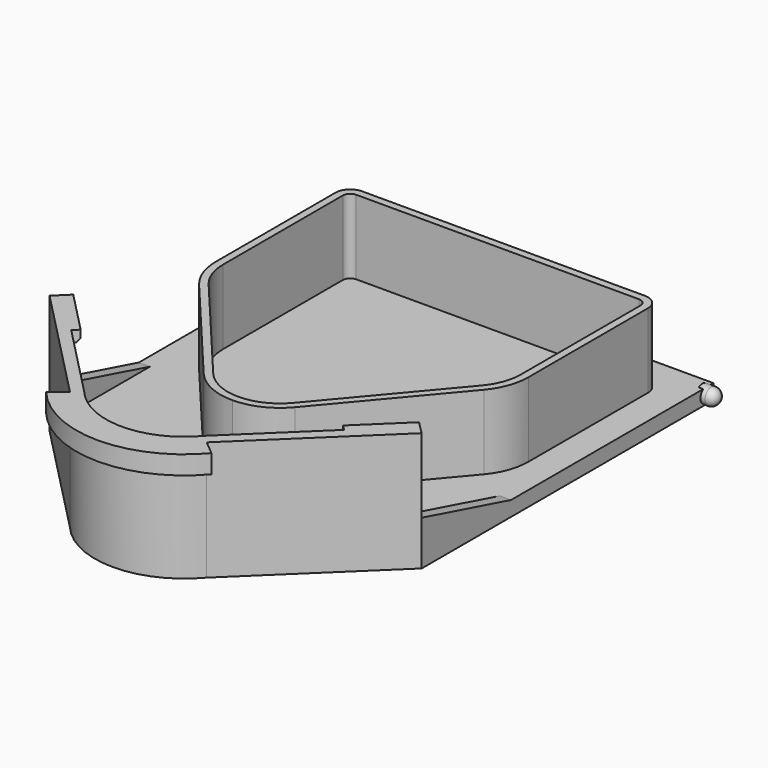
from build123d import *

# Parameters (mm, degrees)
F1_DEPTH  = 10
F3_DEPTH  = 2
F4_R      = 1.1
F5_DEPTH  = 0.6
F6_R      = 1.1
F7_DEPTH  = 0.6
F13_DEPTH = 14
F14_W     = 8
F14_H     = 1.5
F15_DEPTH = 1
F16_SIZE  = 0.5
F17_W     = 8
F17_H     = 1.5
F18_DEPTH = 1
F19_SIZE  = 0.5
F21_DEPTH = 2.5
F23_DEPTH = 1.5
F25_DEPTH = 1.5


with BuildPart() as f1:
    # F0 (on Top) → F1 (new body)
    with BuildSketch(Plane.XY):
        with BuildLine():
            Line((21, 0), (2, 0))
            ThreePointArc((2, 0), (0.5857864376, -0.5857864376), (0, -2))
            Line((0, -2), (0, -22.0858455487))
            ThreePointArc((0, -22.0858455487), (0.4831818119, -24.8239916965), (1.8743610817, -27.2313822401))
            Line((1.8743610817, -27.2313822401), (14.8743610817, -42.7075727163))
            ThreePointArc((14.8743610817, -42.7075727163), (17.6209685952, -44.8133908477), (21, -45.5620360249))
            Line((21, -45.5620360249), (21, -44.5620360249))
            ThreePointArc((21, -44.5620360249), (18.0433475208, -43.9069714948), (15.6400659465, -42.0643806299))
            Line((15.6400659465, -42.0643806299), (2.6400659465, -26.5881901537))
            ThreePointArc((2.6400659465, -26.5881901537), (1.4227840854, -24.481723428), (1, -22.0858455487))
            Line((1, -22.0858455487), (1, -2))
            ThreePointArc((1, -2), (1.2928932188, -1.2928932188), (2, -1))
            Line((2, -1), (21, -1))
            Line((21, -1), (21, 0))
        make_face()
        with BuildLine():
            Line((40, 0), (21, 0))
            Line((21, 0), (21, -1))
            Line((21, -1), (40, -1))
            ThreePointArc((40, -1), (40.7071067812, -1.2928932188), (41, -2))
            Line((41, -2), (41, -22.0858455487))
            ThreePointArc((41, -22.0858455487), (40.5772159146, -24.481723428), (39.3599340535, -26.5881901537))
            Line((39.3599340535, -26.5881901537), (26.3599340535, -42.0643806299))
            ThreePointArc((26.3599340535, -42.0643806299), (23.9566524792, -43.9069714948), (21, -44.5620360249))
            Line((21, -44.5620360249), (21, -45.5620360249))
            ThreePointArc((21, -45.5620360249), (24.3790314048, -44.8133908477), (27.1256389183, -42.7075727163))
            Line((27.1256389183, -42.7075727163), (40.1256389183, -27.2313822401))
            ThreePointArc((40.1256389183, -27.2313822401), (41.5168181881, -24.8239916965), (42, -22.0858455487))
            Line((42, -22.0858455487), (42, -2))
            ThreePointArc((42, -2), (41.4142135624, -0.5857864376), (40, 0))
        make_face()
    extrude(amount=F1_DEPTH)

    # F2 (on Top) → F3 (join)
    with BuildSketch(Plane.XY):
        with BuildLine():
            Line((46, -45), (46, 4))
            Line((46, 4), (-4, 4))
            Line((-4, 4), (-4, -45))
            Line((-4, -45), (11.3115416225, -60.7183050371))
            ThreePointArc((11.3115416225, -60.7183050371), (20.5, -65), (29.6884583775, -60.7183050371))
            Line((29.6884583775, -60.7183050371), (46, -45))
        make_face()
    extrude(amount=-F3_DEPTH)

    # F4 (on face) → F5 (join, symmetric)
    with BuildSketch(Plane.YZ.offset(46)):
        with Locations((2.9, -0.9)):
            Circle(F4_R)
    extrude(amount=F5_DEPTH, both=True)

    # F6 (on face) → F7 (join, symmetric)
    with BuildSketch(Plane(origin=(-4, 0, 0), x_dir=(0, -1, 0), z_dir=(-1, 0, 0))):
        with Locations((-2.9, -0.9)):
            Circle(F6_R)
    extrude(amount=F7_DEPTH, both=True)

    # F8 (on face) → F9 (revolve)
    with BuildSketch(Plane(origin=(-4.6, 0, 0), x_dir=(0, -1, 0), z_dir=(-1, 0, 0))):
        with BuildLine():
            Line((-2.9, -2), (-2.9, 0.2))
            ThreePointArc((-2.9, 0.2), (-4, -0.9), (-2.9, -2))
        make_face()
    revolve(axis=Axis((-4.6, 2.9, -0.9), (0, 0, 1)))

    # F10 (on face) → F11 (revolve)
    with BuildSketch(Plane.YZ.offset(46.6)):
        with BuildLine():
            Line((2.9, -2), (2.9, 0.2))
            ThreePointArc((2.9, 0.2), (1.8, -0.9), (2.9, -2))
        make_face()
    revolve(axis=Axis((46.6, 2.9, -0.9), (0, 0, 1)))

    # F12 (on face) → F13 (join)
    with BuildSketch(Plane.XY):
        with BuildLine():
            Line((-2.9255281827, -43.9533337142), (-4, -45))
            Line((-4, -45), (11.3115416225, -60.7183050371))
            ThreePointArc((11.3115416225, -60.7183050371), (20.5, -65), (29.6884583775, -60.7183050371))
            Line((29.6884583775, -60.7183050371), (46, -45))
            Line((46, -45), (44.9249905697, -43.9528100137))
            Line((44.9249905697, -43.9528100137), (28.5888193042, -59.6948489351))
            ThreePointArc((28.5888193042, -59.6948489351), (20.5114901112, -63.4999937132), (12.4258523564, -59.7125360207))
            Line((12.4258523564, -59.7125360207), (-2.9255281827, -43.9533337142))
        make_face()
    extrude(amount=F13_DEPTH)

    # F14 (on face) → F15 (join)
    with BuildSketch(Plane(origin=(43.5920408851, -45.2372814773, 0), x_dir=(-0.7200798684, -0.6938911897, 0), z_dir=(-0.6938911897, 0.7200798684, 0))):
        with Locations((2.1488863345, 13.25)):
            Rectangle(F14_W, F14_H)
    extrude(amount=F15_DEPTH)

    # F16
    f16_edges = [f1.edges().sort_by_distance(p)[0] for p in [
        (41.35078, -46.008295, 12.5),
    ]]
    chamfer(f16_edges, length=F16_SIZE)

    # F17 (on face) → F18 (join)
    with BuildSketch(Plane(origin=(-23.4702228156, -22.8628527493, 0), x_dir=(-0.6977775239, 0.7163145449, 0), z_dir=(0.7163145449, 0.6977775239, 0))):
        with Locations((-33.4430444229, 13.25)):
            Rectangle(F17_W, F17_H)
    extrude(amount=F18_DEPTH)

    # F19
    f19_edges = [f1.edges().sort_by_distance(p)[0] for p in [
        (0.581896, -46.120814, 12.5),
    ]]
    chamfer(f19_edges, length=F19_SIZE)

    # F20 (on face) → F21 (join)
    with BuildSketch(Plane.XY.offset(14)):
        with BuildLine():
            ThreePointArc((29.6884583775, -60.7183050371), (20.5, -65), (11.3115416225, -60.7183050371))
            Line((11.3115416225, -60.7183050371), (9.3972794606, -62.3262852531))
            ThreePointArc((9.3972794606, -62.3262852531), (20.5, -67.5), (31.6027205394, -62.3262852531))
            Line((31.6027205394, -62.3262852531), (29.6884583775, -60.7183050371))
        make_face()
    extrude(amount=-F21_DEPTH)

    # F22 (on face) → F23 (join)
    with BuildSketch(Plane.YZ.offset(46)):
        Polygon((-45, 4), (-45, 0), (-30, 0), align=None)
    extrude(amount=-F23_DEPTH)

    # F24 (on face) → F25 (join)
    with BuildSketch(Plane(origin=(-4, 0, 0), x_dir=(0, -1, 0), z_dir=(-1, 0, 0))):
        Polygon((30, 0), (45, 0), (45, 4), align=None)
    extrude(amount=-F25_DEPTH)


solid = f1.part
